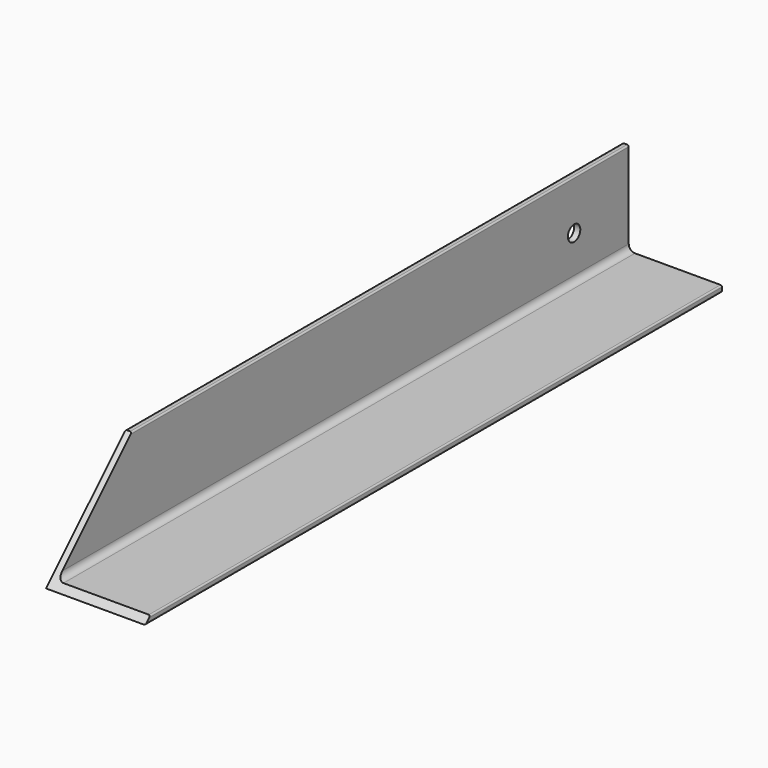
from build123d import *

# Parameters (mm, degrees)
F1_DEPTH = 368.3
F3_DEPTH = 50.801
F4_R     = 3.96875
F5_DEPTH = 50.801


with BuildPart() as f1:
    # F0 (on Front) → F1 (new body)
    with BuildSketch(Plane.XZ):
        with BuildLine():
            Line((0, 50.038), (0, 0))
            Line((0, 0), (50.038, 0))
            ThreePointArc((50.038, 0), (50.5768153673, 0.2231846327), (50.8, 0.762))
            Line((50.8, 0.762), (50.8, 2.413))
            ThreePointArc((50.8, 2.413), (50.5768153673, 2.9518153673), (50.038, 3.175))
            Line((50.038, 3.175), (6.35, 3.175))
            ThreePointArc((6.35, 3.175), (4.1049359697, 4.1049359697), (3.175, 6.35))
            Line((3.175, 6.35), (3.175, 50.038))
            ThreePointArc((3.175, 50.038), (2.9518153673, 50.5768153673), (2.413, 50.8))
            Line((2.413, 50.8), (0.762, 50.8))
            ThreePointArc((0.762, 50.8), (0.2231846327, 50.5768153673), (0, 50.038))
        make_face()
    extrude(amount=F1_DEPTH)

    # F2 (on face) → F3 (cut, through all)
    with BuildSketch(Plane(origin=(0, 0, 0), x_dir=(0, -1, 0), z_dir=(-1, 0, 0))):
        Polygon((310.9406291804, 57.3593708196), (318.262, 50.038), (368.3, 50.038), (368.3, 57.3593708196), align=None)
        Polygon((318.262, 50.038), (368.3, 0), (368.3, 50.038), align=None)
    extrude(amount=-F3_DEPTH, mode=Mode.SUBTRACT)

    # F4 (on face) → F5 (cut, through all)
    with BuildSketch(Plane(origin=(0, 0, 0), x_dir=(0, -1, 0), z_dir=(-1, 0, 0))):
        with Locations((34.925, 25.4)):
            Circle(F4_R)
    extrude(amount=-F5_DEPTH, mode=Mode.SUBTRACT)


solid = f1.part
